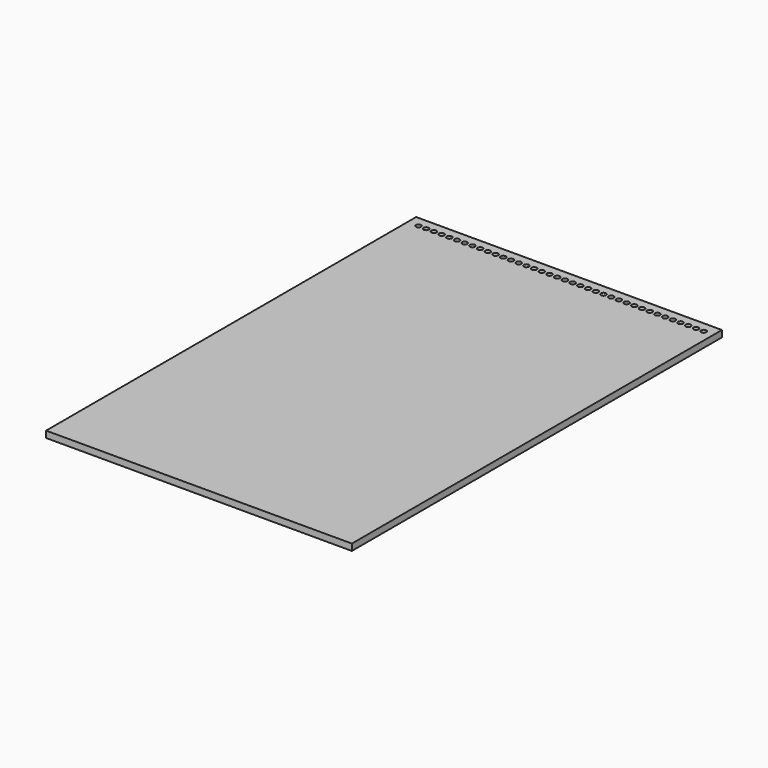
from build123d import *

# Parameters (mm, degrees)
F0_W     = 1190
F0_H     = 25.4
F1_DEPTH = 1800
F3_D     = 20


with BuildPart() as f1:
    # F0 (on Front) → F1 (new body)
    with BuildSketch(Plane.XZ):
        with Locations((595, 12.7)):
            Rectangle(F0_W, F0_H)
    extrude(amount=F1_DEPTH)

    # F3 (through all)
    with Locations(Plane(origin=(0, 0, 0), x_dir=(1, 0, 0), z_dir=(0, 0, -1))):
        with Locations((42.1085171402, 41.1304496229), (72.1085171402, 41.1304496229), (102.1085171402, 41.1304496229), (132.1085171402, 41.1304496229), (162.1085171402, 41.1304496229), (192.1085171402, 41.1304496229), (222.1085171402, 41.1304496229), (252.1085171402, 41.1304496229), (282.1085171402, 41.1304496229), (312.1085171402, 41.1304496229), (342.1085171402, 41.1304496229), (372.1085171402, 41.1304496229), (402.1085171402, 41.1304496229), (432.1085171402, 41.1304496229), (462.1085171402, 41.1304496229), (492.1085171402, 41.1304496229), (522.1085171402, 41.1304496229), (552.1085171402, 41.1304496229), (582.1085171402, 41.1304496229), (612.1085171402, 41.1304496229), (642.1085171402, 41.1304496229), (672.1085171402, 41.1304496229), (702.1085171401, 41.1304496229), (732.1085171402, 41.1304496229), (762.1085171402, 41.1304496229), (792.1085171402, 41.1304496229), (822.1085171402, 41.1304496229), (852.1085171401, 41.1304496229), (882.1085171402, 41.1304496229), (912.1085171402, 41.1304496229), (942.1085171401, 41.1304496229), (972.1085171401, 41.1304496229), (1002.1085171402, 41.1304496229), (1032.1085171402, 41.1304496229), (1062.1085171402, 41.1304496229), (1092.1085171402, 41.1304496229), (1122.1085171402, 41.1304496229), (1152.1085171401, 41.1304496229)):
            Hole(F3_D / 2)


solid = f1.part
